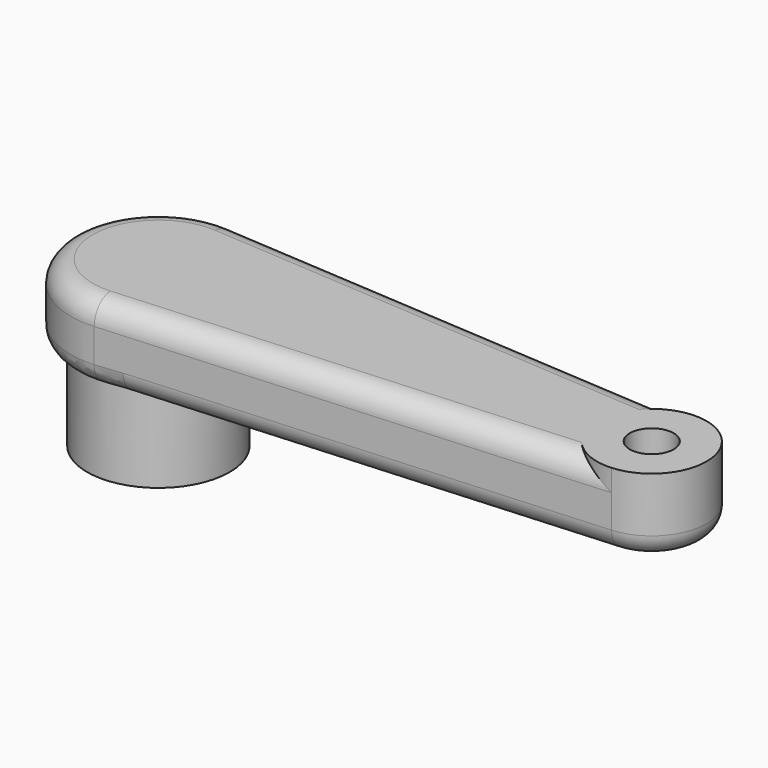
from build123d import *

# Parameters (mm, degrees)
F1_DEPTH = 7
F2_R     = 6.5
F2_W     = 7.5
F2_H     = 7.5
F3_DEPTH = 15
F2_R_2   = 2
F4_DEPTH = 25
F5_START = -5
F5_DEPTH = 10.001
F6_R     = 2
F7_DEPTH = 2.8


with BuildPart() as f1:
    # F0 (on Top) → F1 (new body)
    with BuildSketch(Plane.XY):
        with BuildLine():
            Line((45.3333333333, 4.9888765157), (0.5333333333, 7.9822024251))
            ThreePointArc((0.5333333333, 7.9822024251), (-8, 0), (0.5333333333, -7.9822024251))
            Line((0.5333333333, -7.9822024251), (45.3333333333, -4.9888765157))
            ThreePointArc((45.3333333333, -4.9888765157), (50, 0), (45.3333333333, 4.9888765157))
        make_face()
        with BuildLine():
            Line((45.3333333333, 4.9888765157), (0.5333333333, 7.9822024251))
            ThreePointArc((0.5333333333, 7.9822024251), (-8, 0), (0.5333333333, -7.9822024251))
            Line((0.5333333333, -7.9822024251), (45.3333333333, -4.9888765157))
            ThreePointArc((45.3333333333, -4.9888765157), (50, 0), (45.3333333333, 4.9888765157))
        make_face()
    extrude(amount=F1_DEPTH)

    # F2 (on face) → F3 (join)
    with BuildSketch(Plane.XY.offset(7)):
        Circle(F2_R)
        Rectangle(F2_W, F2_H, mode=Mode.SUBTRACT)
    extrude(amount=-F3_DEPTH)

    # F2 (on face) → F4 (cut)
    with BuildSketch(Plane.XY.offset(7)):
        with Locations((45, 0)):
            Circle(F2_R_2)
    extrude(amount=-F4_DEPTH, mode=Mode.SUBTRACT)

    # F2 (on face) → F5 (cut)
    with BuildSketch(Plane.XY.offset(7).offset(F5_START)):
        Rectangle(F2_W, F2_H)
    extrude(amount=-F5_DEPTH, mode=Mode.SUBTRACT)

    # F6
    f6_edges = [f1.edges().sort_by_distance(p)[0] for p in [
        (22.933333, -6.485539, 7),
        (22.933333, 6.485539, 0),
    ]]
    fillet(f6_edges, radius=F6_R)

    # F2 (on face) → F7 (join)
    with BuildSketch(Plane.XY.offset(7)):
        with BuildLine():
            ThreePointArc((45.3333333333, -4.9888765157), (48.6514837167, -3.4156502553), (50, 0))
            ThreePointArc((50, 0), (48.6514837167, 3.4156502553), (45.3333333333, 4.9888765157))
            ThreePointArc((45.3333333333, 4.9888765157), (40, 0), (45.3333333333, -4.9888765157))
        make_face()
        with Locations((45, 0)):
            Circle(F2_R_2, mode=Mode.SUBTRACT)
    extrude(amount=-F7_DEPTH)


solid = f1.part
